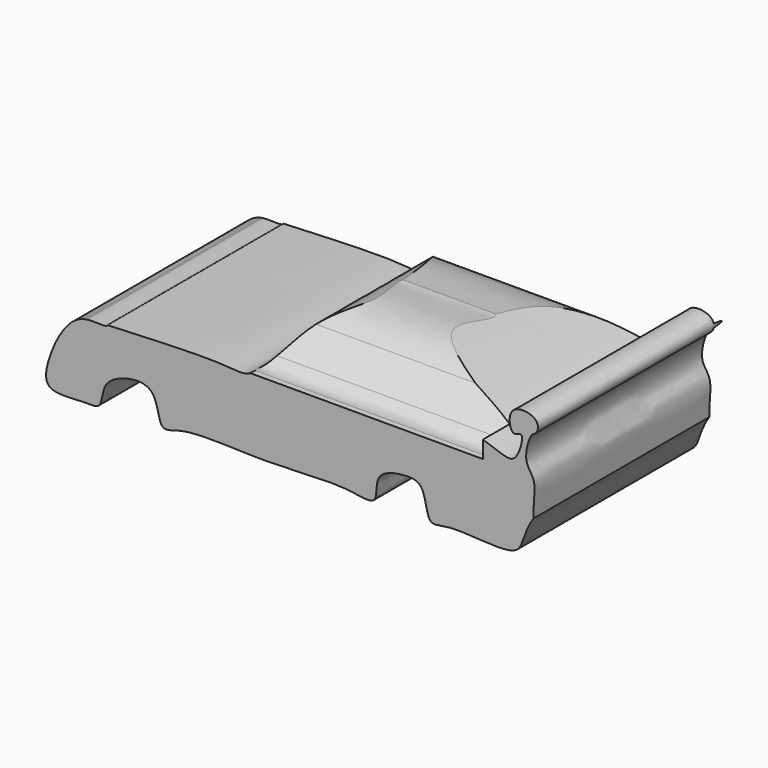
from build123d import *

# Parameters (mm, degrees)
F0_W      = 152.4
F0_H      = 88.9
F1_DEPTH  = 101.6
F3_DEPTH  = 152.4
F5_DEPTH  = 152.4
F7_DEPTH  = 101.6
F9_DEPTH  = 50.8
F11_DEPTH = 50.8
F13_DEPTH = 94.996
F15_DEPTH = 94.234


with BuildPart() as f1:
    # F0 (on Top) → F1 (new body)
    with BuildSketch(Plane.XY):
        with Locations((43.5935835466, 25.9785332856)):
            Rectangle(F0_W, F0_H)
    extrude(amount=F1_DEPTH)

    # F2 (on face) → F3 (cut)
    with BuildSketch(Plane.XZ.offset(18.4714667144)):
        with BuildLine():
            add(Edge.make_bspline(
                [(-32.6064164534, 40.3350330889), (-29.9584011083, 38.8754873524), (-24.5568487837, 45.677842602), (-9.0334659585, 46.052450766), (19.9803980854, 47.5671967034), (29.430429756, 45.3851760277), (35.280396444, 60.1250465339), (61.209037935, 63.8570461031), (97.6785615974, 51.2451617549), (104.7923583746, 48.7021755694), (107.2031328047, 58.7404260154), (102.9354956466, 54.8918804513), (101.4745395651, 64.3890871117), (111.6073552345, 62.9754731209), (110.4826703037, 58.3134508898), (108.5088461997, 58.4076442473), (106.1903762998, 49.8780828363), (111.3911584174, 46.9312687833), (106.9555153531, 31.3007228659), (126.8641361105, 27.1782427265), (153.9982806751, 134.9769880477), (-65.7801421486, 136.1045087805), (-39.7928320858, 44.2960759568), (-32.6064164534, 40.3350330889)],
                knots=[0, 0, 0, 0, 0.0342140633, 0.0819675886, 0.1463818226, 0.1799498947, 0.2210285808, 0.2806273916, 0.3548032197, 0.38269239, 0.4124817164, 0.4299617142, 0.4578723692, 0.488720877, 0.5095082399, 0.5242070753, 0.556044607, 0.5828489761, 0.6254744999, 0.6622004138, 0.7606990762, 0.9071468826, 1, 1, 1, 1], degree=3))
        make_face()
    extrude(amount=-F3_DEPTH, mode=Mode.SUBTRACT)

    # F4 (on face) → F5 (cut)
    with BuildSketch(Plane.XZ.offset(18.4714667144)):
        with BuildLine():
            add(Edge.make_bspline(
                [(-12.6021751766, 46.0129637501), (-13.0415707151, 45.0724744569), (-20.2120554359, 46.8917751836), (-25.9277746891, 40.2696697908), (-28.8612424407, 34.3030177921), (-32.2355748716, 22.7911823112), (-19.6436623456, 24.8581495449), (-14.209453343, 23.7682858542), (-14.2415450424, 30.6830155395), (-9.0680314333, 34.4887445457), (1.8781962999, 35.7630432192), (1.8307211656, 23.2500309205), (9.6891975657, 27.8443322127), (32.6063983535, 25.5776831853), (54.8953859419, 28.048033707), (65.4311720951, 24.7685896129), (63.4493885382, 34.0313384605), (71.8415986317, 36.0996773146), (78.6545116426, 35.7509236734), (78.7307292433, 24.6103482378), (85.7950206433, 28.2342526797), (107.8972613723, 24.0601478792), (104.2819695179, 39.0524574757), (170.8312544639, 84.804204696), (147.0334722289, -19.5026556286), (43.1903302098, -17.114004439), (-81.1199269535, -13.3651944848), (-36.9098976979, 47.40080473), (-20.4882823935, 55.6636240119), (-12.089572392, 47.1101470128), (-12.6021751766, 46.0129637501)],
                knots=[0, 0, 0, 0, 0.0229407259, 0.0487990753, 0.0735999042, 0.0996196624, 0.127969616, 0.1474225976, 0.1678966521, 0.1906018091, 0.2171029037, 0.2430489407, 0.2643301239, 0.3082125812, 0.3526611964, 0.3771593333, 0.3991943092, 0.4237770655, 0.4453909866, 0.4705429753, 0.4923403507, 0.5310779762, 0.5612211762, 0.62488076, 0.6924246669, 0.7858362625, 0.8734193167, 0.9353558105, 0.973237143, 1, 1, 1, 1], degree=3))
        make_face()
    extrude(amount=-F5_DEPTH, mode=Mode.SUBTRACT)

    # F6 (on Top) → F7 (cut)
    with BuildSketch(Plane.XY):
        Polygon((-29.8467520624, 72.7104991674), (-29.8467520624, 44.5475652814), (110.689073801, 44.5475652814), (111.2467646599, 72.7104991674), align=None)
    extrude(amount=F7_DEPTH, mode=Mode.SUBTRACT)

    # F8 (on Right) → F9 (cut)
    with BuildSketch(Plane.YZ):
        Polygon((71.3792145252, 32.2785675526), (45.1681688428, 30.6055210531), (45.1681688428, 25.8652251214), (72.2157359123, 25.8652251214), align=None)
    extrude(amount=-F9_DEPTH, mode=Mode.SUBTRACT)

    # F10 (on Right) → F11 (cut)
    with BuildSketch(Plane.YZ):
        Polygon((74.4151696563, 28.4246038646), (44.5791855454, 30.3764920682), (44.5791855454, 25.0785127282), (68.2806670666, 20.6170603633), align=None)
    extrude(amount=-F11_DEPTH, mode=Mode.SUBTRACT)

    # F12 (on Right) → F13 (cut)
    with BuildSketch(Plane.YZ):
        with BuildLine():
            add(Edge.make_bspline(
                [(44.5661060512, 47.2134500742), (43.1429780936, 46.794340304), (41.92381732, 53.5409106799), (33.4770230254, 59.9301089852), (10.1738130104, 59.3855137446), (-0.733376742, 63.9268143363), (-16.9651985562, 37.9286659151), (-42.2867704494, 64.0863430381), (-18.2384384667, 72.274055591), (66.0354770918, 88.4120827619), (47.5317283155, 48.0868228858), (44.5661060512, 47.2134500742)],
                knots=[0, 0, 0, 0, 0.0582326101, 0.1379495679, 0.2553883542, 0.3349946321, 0.45186727, 0.5666233888, 0.6750828036, 0.8786504585, 1, 1, 1, 1], degree=3))
        make_face()
    extrude(amount=F13_DEPTH, mode=Mode.SUBTRACT)

    # F14 (on Right) → F15 (cut)
    with BuildSketch(Plane.YZ):
        with BuildLine():
            add(Edge.make_bspline(
                [(20.0025010854, 60.0075013936), (19.0884993163, 58.8156443577), (3.5841785249, 62.8188582237), (-10.6247707815, 52.5515952989), (-15.8678366832, 43.0532017169), (-48.5454181544, 67.8916394992), (2.7215066595, 74.7319326471), (21.0773354255, 61.4090838783), (20.0025010854, 60.0075013936)],
                knots=[0, 0, 0, 0, 0.1457299085, 0.3077697463, 0.4163426181, 0.5974020016, 0.8286266883, 1, 1, 1, 1], degree=3))
        make_face()
    extrude(amount=F15_DEPTH, mode=Mode.SUBTRACT)


solid = f1.part
